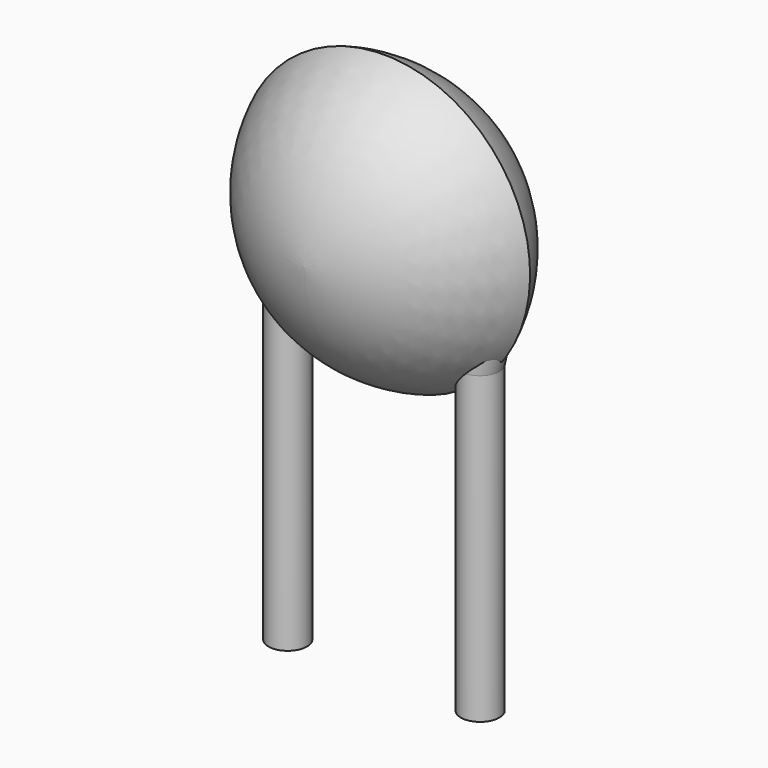
from build123d import *

# Parameters (mm, degrees)
SKETCH001_R       = 0.25
PAD001_DEPTH      = 0.76
PAD001_DEPTH_BACK = 3.2
SKETCH002_R       = 0.25
SKETCH003_R       = 0.25
SKETCH004_R       = 0.25
SKETCH005_R       = 0.25


with BuildPart() as pad001:
    # Sketch001 → Pad001 (new body, two sides)
    with BuildSketch(Plane.XY) as pad001_sk:
        Circle(SKETCH001_R)
        with Locations((2.5, 0)):
            Circle(SKETCH001_R)
    extrude(amount=PAD001_DEPTH)
    extrude(pad001_sk.sketch, amount=-PAD001_DEPTH_BACK)


with BuildPart() as revolution:
    # Sketch → Revolution (revolve)
    with BuildSketch(Plane.YZ.offset(1.25)):
        with BuildLine():
            Line((-1.3, 2), (1.3, 2))
            ThreePointArc((0, 0.1), (0.9256, 0.861432), (1.3, 2))
            ThreePointArc((-1.3, 2), (-0.9256, 0.861432), (0, 0.1))
        make_face()
    revolve(axis=Axis((1.25, -3.32079, 2), (0, 1, 0)))


with BuildPart() as loft_body:
    # Sketch002 → Loft section 0
    with BuildSketch(Plane.XY.offset(1.9)):
        with Locations((-0.27, 0)):
            Circle(SKETCH002_R)
    # Sketch003 → Loft section 1
    with BuildSketch(Plane.XY.offset(0.76)):
        Circle(SKETCH003_R)
    loft()


with BuildPart() as loft001:
    # Sketch004 → Loft001 section 0
    with BuildSketch(Plane.XY.offset(0.76)):
        with Locations((2.5, 0)):
            Circle(SKETCH004_R)
    # Sketch005 → Loft001 section 1
    with BuildSketch(Plane.XY.offset(1.9)):
        with Locations((2.77, 0)):
            Circle(SKETCH005_R)
    loft()


solid = Compound([pad001.part, revolution.part, loft_body.part, loft001.part])
